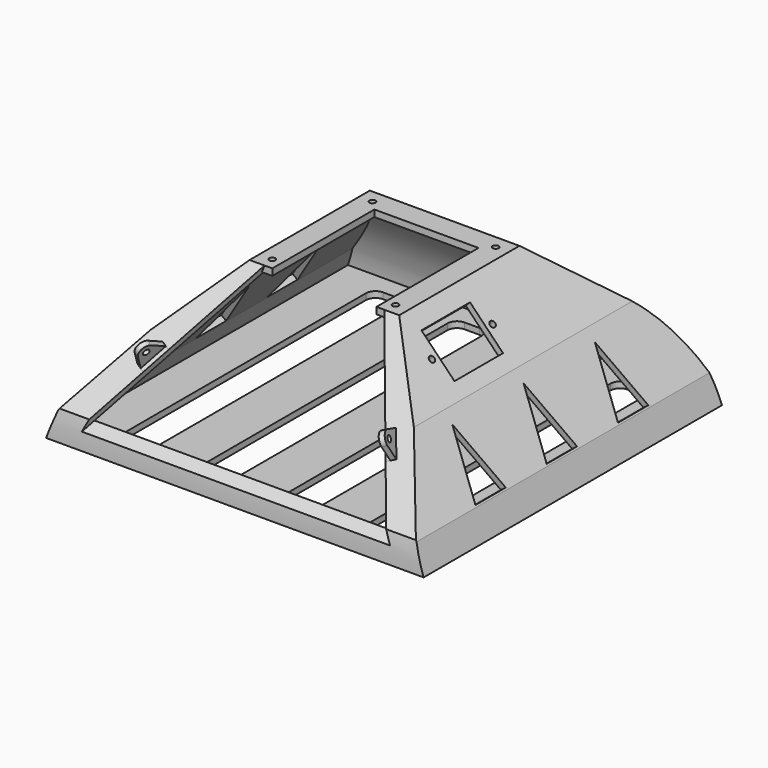
from build123d import *

# Parameters (mm, degrees)
PAD_DEPTH       = 100
POCKET_DEPTH    = 100
THICKNESS_T     = 3.2
POCKET001_DEPTH = 3.2
SKETCH005_R     = 1.6
SKETCH005_W     = 25
SKETCH005_H     = 32
POCKET002_DEPTH = 5
POCKET003_DEPTH = 5
PAD001_DEPTH    = 3.5
SKETCH008_R     = 1.6
POCKET004_DEPTH = 5
POCKET005_DEPTH = 5
POCKET006_DEPTH = 5
SKETCH011_R     = 1.6
PAD002_DEPTH    = 5
POCKET007_DEPTH = 2.2


with BuildPart() as part:
    # Sketch → Pad (new body, symmetric)
    with BuildSketch(Plane.YZ):
        with BuildLine():
            Line((-95, 0), (95, 0))
            ThreePointArc((95, 0), (88.5403047419, 23.6522969832), (73.3022221559, 42.8606195157))
            Line((35, 75), (73.3022221559, 42.8606195157))
            Line((-35, 75), (35, 75))
            Line((-93.5150551793, 10), (-35, 75))
            ThreePointArc((-93.5150551793, 10), (-94.4647133512, 5.0307659423), (-95, 0))
        make_face()
    extrude(amount=PAD_DEPTH, both=True)

    # Sketch001 → Pocket (cut, symmetric)
    with BuildSketch(Plane.XZ):
        with BuildLine():
            Line((-110, 0), (-110, 75))
            ThreePointArc((110, 75), (0, 106.1145618), (-110, 75))
            Line((110, 75), (110, 0))
            Line((110, 0), (95, 0))
            Line((95, 0), (91.5797985667, 9.3969262079))
            Line((91.5797985667, 9.3969262079), (67.0264978038, 41.980256839))
            Line((35, 75), (67.0264978038, 41.980256839))
            Line((-35, 75), (35, 75))
            Line((-35, 75), (-67.0264978038, 41.980256839))
            Line((-91.5797985667, 9.3969262079), (-67.0264978038, 41.980256839))
            Line((-95, 0), (-91.5797985667, 9.3969262079))
            Line((-110, 0), (-95, 0))
        make_face()
    extrude(amount=POCKET_DEPTH, both=True, mode=Mode.SUBTRACT)

    # Thickness
    thickness_openings = [part.faces().sort_by_distance(p)[0] for p in [
        (0, 0, 75),
    ]]
    offset(amount=THICKNESS_T, openings=thickness_openings, kind=Kind.INTERSECTION)

    # Sketch003 (on Face19 of Thickness) → Pocket001 (cut)
    with BuildSketch(Plane(origin=(0, -59.0046541218, 53.1178552581), x_dir=(1, 0, 0), z_dir=(0, -0.7432085454, 0.6690598314))):
        Polygon((-85, -68.162306919), (-30, 32.3235468044), (30, 32.3235468044), (85, -68.162306919), align=None)
    extrude(amount=-POCKET001_DEPTH, mode=Mode.SUBTRACT)

    # Sketch005 (on Face21 of Pocket001) → Pocket002 (cut)
    with BuildSketch(Plane(origin=(57.8138617322, 0, 56.074800666), x_dir=(-0.6962282131, 0, 0.7178205035), z_dir=(0.7178205035, 0, 0.6962282131))):
        with Locations((3.8648074159, 37.3056555523)):
            Circle(SKETCH005_R)
        with Locations((3.8648074159, -2.6943444477)):
            Circle(SKETCH005_R)
        with Locations((3.8648074159, 17.3056555523)):
            Rectangle(SKETCH005_W, SKETCH005_H)
    extrude(amount=-POCKET002_DEPTH, mode=Mode.SUBTRACT)

    # Sketch006 (on Face26 of Pocket002) → Pocket003 (cut)
    with BuildSketch(Plane(origin=(0, 53.4483679798, 63.6972845582), x_dir=(1, 0, 0), z_dir=(0, 0.6427876097, 0.7660444431))):
        with BuildLine():
            Line((-20, 28.416096279), (20, 28.416096279))
            ThreePointArc((20, -11.583903721), (40, 8.416096279), (20, 28.416096279))
            Line((-20, -11.583903721), (20, -11.583903721))
            ThreePointArc((-20, 28.416096279), (-40, 8.416096279), (-20, -11.583903721))
        make_face()
    extrude(amount=-POCKET003_DEPTH, mode=Mode.SUBTRACT)

    # Sketch007 (on Face13 of Pocket003) → Pad001 (join)
    with BuildSketch(Plane.XY.offset(75)):
        Polygon((-27.4579389755, -39.3056555523), (-27.4579389755, 27.978316246), (27.4579389755, 27.978316246), (27.4579389755, -39.3056555523), (39.4579389755, -39.3056555523), (39.4579389755, 39.978316246), (-39.4579389755, 39.978316246), (-39.4579389755, -39.3056555523), align=None)
    extrude(amount=-PAD001_DEPTH)

    # Sketch008 (on Face41 of Pad001) → Pocket004 (cut)
    with BuildSketch(Plane.XY.offset(75)):
        with Locations((-32.5, 33)):
            Circle(SKETCH008_R)
        with Locations((32.5, 33)):
            Circle(SKETCH008_R)
        with Locations((-32.5, -33)):
            Circle(SKETCH008_R)
        with Locations((32.5, -33)):
            Circle(SKETCH008_R)
    extrude(amount=-POCKET004_DEPTH, mode=Mode.SUBTRACT)

    # Sketch009 (on Face38 of Pocket004) → Pocket005 (cut)
    with BuildSketch(Plane(origin=(65.4833922887, 0, 49.3452754736), x_dir=(0, 1, 0), z_dir=(0.79863551, 0, 0.6018150232))):
        Polygon((-57, -47.0876228441), (-47, -13.5466031816), (-37, -47.0876228441), align=None)
        Polygon((-10, -47.0876228441), (0, -13.5466031816), (10, -47.0876228441), align=None)
        Polygon((37, -47.0876228441), (47, -13.5466031816), (57, -47.0876228441), align=None)
    pocket005 = extrude(amount=-POCKET005_DEPTH, mode=Mode.SUBTRACT)

    # Mirrored: Pocket005 across YZ
    add(pocket005.mirror(Plane.YZ), mode=Mode.SUBTRACT)

    # Sketch010 (on Face55 of Mirrored) → Pocket006 (cut)
    with BuildSketch(Plane(origin=(0, 0, -3.2), x_dir=(1, 0, 0), z_dir=(0, 0, -1))):
        with BuildLine():
            Line((-68.5, -85), (-60.5, -85))
            ThreePointArc((-60.5, -85), (-56.9644660941, -83.5355339059), (-55.5, -80))
            Line((-55.5, -80), (-55.5, 80))
            ThreePointArc((-55.5, 80), (-56.9644660941, 83.5355339059), (-60.5, 85))
            Line((-60.5, 85), (-68.5, 85))
            ThreePointArc((-68.5, 85), (-72.0355339059, 83.5355339059), (-73.5, 80))
            Line((-73.5, 80), (-73.5, -80))
            ThreePointArc((-73.5, -80), (-72.0355339059, -83.5355339059), (-68.5, -85))
        make_face()
        with BuildLine():
            Line((-25.5, -85), (-17.5, -85))
            ThreePointArc((-17.5, -85), (-13.9644660941, -83.5355339059), (-12.5, -80))
            Line((-12.5, -80), (-12.5, 80))
            ThreePointArc((-12.5, 80), (-13.9644660941, 83.5355339059), (-17.5, 85))
            Line((-17.5, 85), (-25.5, 85))
            ThreePointArc((-25.5, 85), (-29.0355339059, 83.5355339059), (-30.5, 80))
            Line((-30.5, 80), (-30.5, -80))
            ThreePointArc((-30.5, -80), (-29.0355339059, -83.5355339059), (-25.5, -85))
        make_face()
        with BuildLine():
            Line((17.5, -85), (25.5, -85))
            ThreePointArc((25.5, -85), (29.0355339059, -83.5355339059), (30.5, -80))
            Line((30.5, -80), (30.5, 80))
            ThreePointArc((30.5, 80), (29.0355339059, 83.5355339059), (25.5, 85))
            Line((25.5, 85), (17.5, 85))
            ThreePointArc((17.5, 85), (13.9644660941, 83.5355339059), (12.5, 80))
            Line((12.5, 80), (12.5, -80))
            ThreePointArc((12.5, -80), (13.9644660941, -83.5355339059), (17.5, -85))
        make_face()
        with BuildLine():
            Line((60.5, -85), (68.5, -85))
            ThreePointArc((68.5, -85), (72.0355339059, -83.5355339059), (73.5, -80))
            Line((73.5, -80), (73.5, 80))
            ThreePointArc((73.5, 80), (72.0355339059, 83.5355339059), (68.5, 85))
            Line((68.5, 85), (60.5, 85))
            ThreePointArc((60.5, 85), (56.9644660941, 83.5355339059), (55.5, 80))
            Line((55.5, 80), (55.5, -80))
            ThreePointArc((55.5, -80), (56.9644660941, -83.5355339059), (60.5, -85))
        make_face()
    extrude(amount=-POCKET006_DEPTH, mode=Mode.SUBTRACT)

    # Sketch011 (on Face64 of Pocket006) → Pad002 (join)
    with BuildSketch(Plane(origin=(-36.6979523749, 13.4389256858, 14.9282978013), x_dir=(0.2975562628, 0.9470000032, -0.1210424075), z_dir=(0.8771991015, -0.3212335505, -0.3568343346))):
        with BuildLine():
            Line((-97.4314518047, 4.7233611651), (-88.7550193505, 15.7106046714))
            Line((-88.7550193505, 15.7106046714), (-96.9132845396, 17.9202899666))
            ThreePointArc((-96.9132845396, 17.9202899666), (-101.098227275, 16.5383837063), (-101.4722817586, 12.1470861926))
            Line((-97.4314518047, 4.7233611651), (-101.4722817586, 12.1470861926))
        make_face()
        with Locations((-97.9590148447, 14.0594030051)):
            Circle(SKETCH011_R, mode=Mode.SUBTRACT)
    pad002 = extrude(amount=-PAD002_DEPTH)

    # Sketch011 (on Face64 of Pocket006) → Pocket007 (cut)
    with BuildSketch(Plane(origin=(-36.6979523749, 13.4389256858, 14.9282978013), x_dir=(0.2975562628, 0.9470000032, -0.1210424075), z_dir=(0.8771991015, -0.3212335505, -0.3568343346))):
        with BuildLine():
            Line((-97.4314518047, 4.7233611651), (-88.7550193505, 15.7106046714))
            Line((-88.7550193505, 15.7106046714), (-96.9132845396, 17.9202899666))
            ThreePointArc((-96.9132845396, 17.9202899666), (-101.098227275, 16.5383837063), (-101.4722817586, 12.1470861926))
            Line((-97.4314518047, 4.7233611651), (-101.4722817586, 12.1470861926))
        make_face()
        with Locations((-97.9590148447, 14.0594030051)):
            Circle(SKETCH011_R, mode=Mode.SUBTRACT)
    pocket007 = extrude(amount=-POCKET007_DEPTH, mode=Mode.SUBTRACT)

    # Mirrored001: Pad002 across YZ
    add(pad002.mirror(Plane.YZ))

    # Mirrored002: Pocket007 across YZ
    add(pocket007.mirror(Plane.YZ), mode=Mode.SUBTRACT)


solid = part.part
